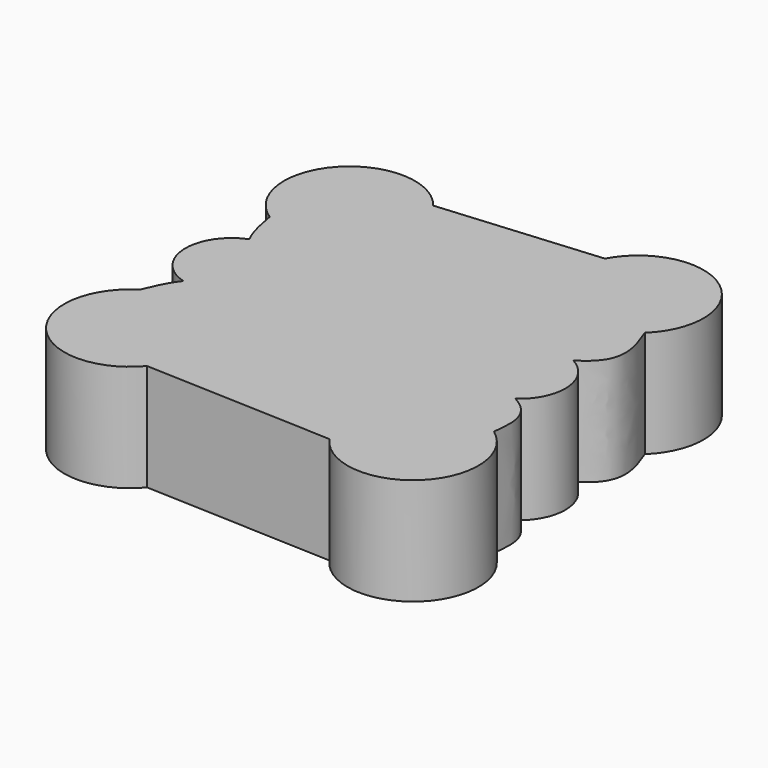
from build123d import *

# Parameters (mm, degrees)
F1_DEPTH = 25.4


with BuildPart() as f1:
    # F0 (on Top) → F1 (new body)
    with BuildSketch(Plane.XY):
        with BuildLine():
            Line((15.3314765699, 45.3634702184), (-22.8350594245, 42.0886999699))
            ThreePointArc((-22.8350594245, 42.0886999699), (-46.5230995583, 43.1231755121), (-43.6973915181, 19.5815366758))
            add(Edge.make_bspline(
                [(-43.6973915181, 19.5815366758), (-43.1174367744, 16.2871292149), (-42.5374820306, 12.9927217539), (-41.0270827556, 10.2359403638)],
                knots=[0, 0, 0, 0, 0.3327137819, 0.3327137819, 0.3327137819, 0.3327137819], degree=3))
            add(Edge.make_bspline(
                [(-41.0270827556, 10.2359403638), (-40.5110375862, 9.2940545041), (-36.8442315299, 4.1334897017), (-28.1561256987, 1.87431405), (-20.9480811119, 0)],
                knots=[0.3327137819, 0.3327137819, 0.3327137819, 0.3327137819, 0.4463892469, 1, 1, 1, 1], degree=3))
            add(Edge.make_bspline(
                [(-40.1252666441, -10.5391209432), (-39.599730448, -9.8778116964), (-35.498491994, -5.4136644053), (-27.6646682205, -2.4989911865), (-20.9480811119, 0)],
                knots=[0.3384673734, 0.3384673734, 0.3384673734, 0.3384673734, 0.4328131906, 1, 1, 1, 1], degree=3))
            add(Edge.make_bspline(
                [(-44.2531548049, -18.2908964757), (-43.1318961623, -15.6012383193), (-42.0106375198, -12.911580163), (-40.1252666441, -10.5391209432)],
                knots=[0, 0, 0, 0, 0.3384673734, 0.3384673734, 0.3384673734, 0.3384673734], degree=3))
            ThreePointArc((-44.2531548049, -18.2908964757), (-47.768426214, -41.7394838947), (-24.0602315313, -41.4005297397))
            Line((-24.0602315313, -41.4005297397), (20.6953128024, -43.1810448239))
            ThreePointArc((20.6953128024, -43.1810448239), (44.3016536318, -45.4023187101), (42.6602594814, -21.7485830585))
            add(Edge.make_bspline(
                [(37.5745547292, -8.9566238299), (38.377714123, -9.423502034), (43.7248416865, -12.9867792586), (43.1537035595, -17.6874028342), (42.6602594814, -21.7485830585)],
                knots=[0.7611513259, 0.7611513259, 0.7611513259, 0.7611513259, 0.7936428016, 1, 1, 1, 1], degree=3))
            add(Edge.make_bspline(
                [(36.319540598, 9.7232166209), (30.2639633531, 5.8212058143), (11.0469761522, -0.50266664), (31.4704630142, -5.408302787), (37.5745547292, -8.9566238299)],
                knots=[0.2799466745, 0.2799466745, 0.2799466745, 0.2799466745, 0.5142128614, 0.7611513259, 0.7611513259, 0.7611513259, 0.7611513259], degree=3))
            add(Edge.make_bspline(
                [(39.7229749773, 26.7391821683), (41.6536861472, 21.6807257291), (44.0243403968, 15.4696199766), (37.6624586898, 10.5885479831), (36.319540598, 9.7232166209)],
                knots=[0, 0, 0, 0, 0.2279945174, 0.2799466745, 0.2799466745, 0.2799466745, 0.2799466745], degree=3))
            ThreePointArc((39.7229749773, 26.7391821683), (38.4970596178, 50.4180866311), (15.3314765699, 45.3634702184))
        make_face()
        with BuildLine():
            add(Edge.make_bspline(
                [(-41.0270827556, 10.2359403638), (-40.5110375862, 9.2940545041), (-36.8442315299, 4.1334897017), (-28.1561256987, 1.87431405), (-20.9480811119, 0)],
                knots=[0.3327137819, 0.3327137819, 0.3327137819, 0.3327137819, 0.4463892469, 1, 1, 1, 1], degree=3))
            ThreePointArc((-41.0270827556, 10.2359403638), (-48.0428369726, -0.4757075685), (-40.1252666441, -10.5391209432))
            add(Edge.make_bspline(
                [(-40.1252666441, -10.5391209432), (-39.599730448, -9.8778116964), (-35.498491994, -5.4136644053), (-27.6646682205, -2.4989911865), (-20.9480811119, 0)],
                knots=[0.3384673734, 0.3384673734, 0.3384673734, 0.3384673734, 0.4328131906, 1, 1, 1, 1], degree=3))
        make_face()
        with BuildLine():
            ThreePointArc((37.5745547292, -8.9566238299), (42.1864816242, 0.7353103047), (36.319540598, 9.7232166209))
            add(Edge.make_bspline(
                [(36.319540598, 9.7232166209), (30.2639633531, 5.8212058143), (11.0469761522, -0.50266664), (31.4704630142, -5.408302787), (37.5745547292, -8.9566238299)],
                knots=[0.2799466745, 0.2799466745, 0.2799466745, 0.2799466745, 0.5142128614, 0.7611513259, 0.7611513259, 0.7611513259, 0.7611513259], degree=3))
        make_face()
    extrude(amount=F1_DEPTH)


solid = f1.part
